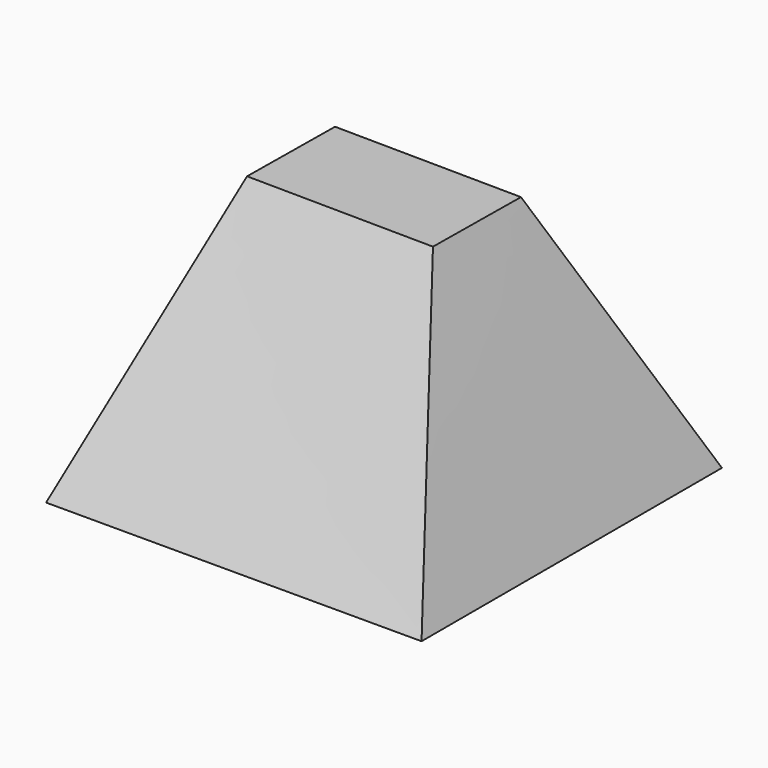
from build123d import *

# Parameters (mm, degrees)
F0_W = 100
F0_H = 100


with BuildPart() as f3:
    # F2 (on offset) → F3 section 0
    with BuildSketch(Plane.XY.offset(70)):
        Polygon((-24.826407, 14.730338), (-25.17005, -14.13513), (24.826407, -14.730338), (25.17005, 14.13513), align=None)
    # F0 (on Top) → F3 section 1
    with BuildSketch(Plane.XY):
        Rectangle(F0_W, F0_H)
    loft()


solid = f3.part
